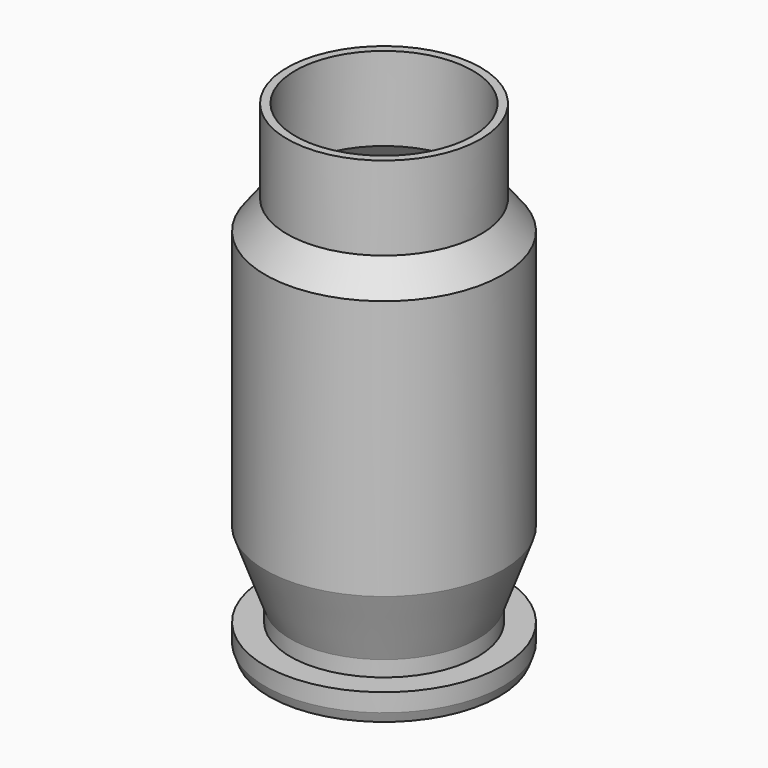
from build123d import *


with BuildPart() as f1:
    # F0 (on Front) → F1 (revolve)
    with BuildSketch(Plane.XZ):
        Polygon((2.2225, 3.048), (2.2225, 0), (4.678082, 0), (4.826, 0.4064), (4.826, 1.143), (3.81, 1.143), (3.81, 1.778), (4.826, 4.569437), (4.826, 15.1384), (3.937, 16.3068), (3.937, 19.7104), (3.6068, 19.7104), (3.6068, 16.3068), (4.4958, 15.1384), (4.064, 4.064), (0.9398, 4.064), (0.9398, 3.048), align=None)
    revolve(axis=Axis((0, 0, 11.499301), (0, 0, 1)))


with BuildPart() as f2_1:
    # F2: copy of F1
    add(f1.part)


solid = f1.part
